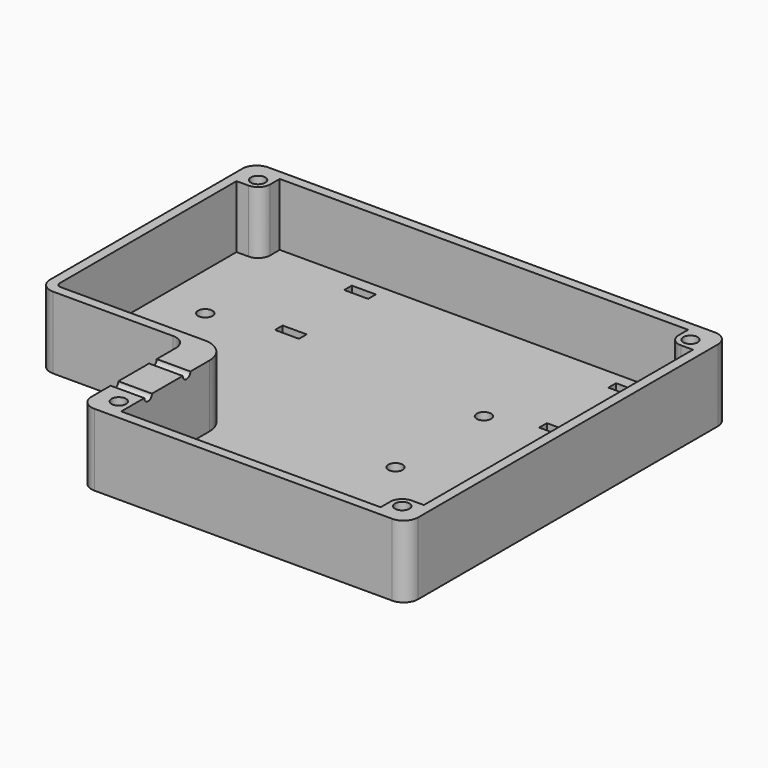
from build123d import *

# Parameters (mm, degrees)
F1_DEPTH  = 15
F2_T      = -2
F3_R      = 1.5
F4_DEPTH  = 2
F5_R      = 1.5
F6_DEPTH  = 13
F7_W      = 5
F7_H      = 2
F8_DEPTH  = 2
F9_R      = 1.5
F10_DEPTH = 2
F11_R     = 1
F12_DEPTH = 7


with BuildPart() as f1:
    # F0 (on Top) → F1 (new body)
    with BuildSketch(Plane.XY):
        with BuildLine():
            Line((-40.5, 35.5), (-40.5, 14.5))
            Line((-40.5, 14.5), (-40.5, -14.5))
            ThreePointArc((-40.5, -14.5), (-39.6213203436, -16.6213203436), (-37.5, -17.5))
            Line((-37.5, -17.5), (-12.5, -17.5))
            ThreePointArc((-12.5, -17.5), (-10.3786796564, -18.3786796564), (-9.5, -20.5))
            Line((-9.5, -20.5), (-9.5, -42.5))
            ThreePointArc((-9.5, -42.5), (-8.6213203436, -44.6213203436), (-6.5, -45.5))
            Line((-6.5, -45.5), (55.5, -45.5))
            ThreePointArc((55.5, -45.5), (57.6213203436, -44.6213203436), (58.5, -42.5))
            Line((58.5, -42.5), (58.5, 35.5))
            ThreePointArc((58.5, 35.5), (57.6213203436, 37.6213203436), (55.5, 38.5))
            Line((55.5, 38.5), (-37.5, 38.5))
            ThreePointArc((-37.5, 38.5), (-39.6213203436, 37.6213203436), (-40.5, 35.5))
        make_face()
    extrude(amount=F1_DEPTH)

    # F2
    f2_openings = [f1.faces().sort_by_distance(p)[0] for p in [
        (12.966173, -0.233802, 15),
    ]]
    offset(amount=F2_T, openings=f2_openings)

    # F3 (on face) → F4 (cut, through all)
    with BuildSketch(Plane.XY.offset(2)):
        with Locations((-29, 11.5)):
            Circle(F3_R)
        with Locations((29, 11.5)):
            Circle(F3_R)
        with Locations((-29, -11.5)):
            Circle(F3_R)
        with Locations((29, -11.5)):
            Circle(F3_R)
    extrude(amount=-F4_DEPTH, mode=Mode.SUBTRACT)

    # F5 (on face) → F6 (join, through all)
    with BuildSketch(Plane.XY.offset(2)):
        with BuildLine():
            Line((-2.5, -43.5), (-2.5, -41))
            Line((-2.5, -41), (-2.5, -20.5))
            ThreePointArc((-2.5, -20.5), (-3.9644660941, -16.9644660941), (-7.5, -15.5))
            Line((-7.5, -15.5), (-12.5, -15.5))
            Line((-12.5, -15.5), (-7.5, -20.5))
            Line((-7.5, -20.5), (-7.5, -38.5))
            Line((-7.5, -38.5), (-7.5, -43.5))
            Line((-7.5, -43.5), (-2.5, -43.5))
        make_face()
        with Locations((-5, -41)):
            Circle(F5_R, mode=Mode.SUBTRACT)
        with BuildLine():
            ThreePointArc((54, -38.5), (52.232233047, -39.232233047), (51.5, -41))
            Line((51.5, -41), (51.5, -43.5))
            Line((51.5, -43.5), (56.5, -43.5))
            Line((56.5, -43.5), (56.5, -38.5))
            Line((56.5, -38.5), (54, -38.5))
        make_face()
        with Locations((54, -41)):
            Circle(F5_R, mode=Mode.SUBTRACT)
        with BuildLine():
            ThreePointArc((51.5, 34), (52.232233047, 32.232233047), (54, 31.5))
            Line((54, 31.5), (56.5, 31.5))
            Line((56.5, 31.5), (56.5, 36.5))
            Line((56.5, 36.5), (51.5, 36.5))
            Line((51.5, 36.5), (51.5, 34))
        make_face()
        with Locations((54, 34)):
            Circle(F5_R, mode=Mode.SUBTRACT)
        with BuildLine():
            Line((-38.5, 31.5), (-36, 31.5))
            ThreePointArc((-36, 31.5), (-34.232233047, 32.232233047), (-33.5, 34))
            Line((-33.5, 34), (-33.5, 36.5))
            Line((-33.5, 36.5), (-38.5, 36.5))
            Line((-38.5, 36.5), (-38.5, 31.5))
        make_face()
        with Locations((-36, 34)):
            Circle(F5_R, mode=Mode.SUBTRACT)
    extrude(amount=F6_DEPTH)

    # F7 (on Top) → F8 (cut, through all)
    with BuildSketch(Plane.XY):
        with Locations((-14, 33)):
            Rectangle(F7_W, F7_H)
        with Locations((41, 33)):
            Rectangle(F7_W, F7_H)
        with Locations((41, 15)):
            Rectangle(F7_W, F7_H)
        with Locations((-14, 15)):
            Rectangle(F7_W, F7_H)
        with Locations((25, -27.5)):
            Rectangle(F7_W, F7_H)
        with Locations((25, -33.5)):
            Rectangle(F7_W, F7_H)
        with Locations((35, -27.5)):
            Rectangle(F7_W, F7_H)
        with Locations((35, -33.5)):
            Rectangle(F7_W, F7_H)
        with Locations((45, -27.5)):
            Rectangle(F7_W, F7_H)
        with Locations((45, -33.5)):
            Rectangle(F7_W, F7_H)
    extrude(amount=F8_DEPTH, mode=Mode.SUBTRACT)

    # F9 (on face) → F10 (cut, through all)
    with BuildSketch(Plane.XY.offset(2)):
        with Locations((54, 34)):
            Circle(F9_R)
        with Locations((-36, 34)):
            Circle(F9_R)
        with Locations((-5, -41)):
            Circle(F9_R)
        with Locations((54, -41)):
            Circle(F9_R)
    extrude(amount=-F10_DEPTH, mode=Mode.SUBTRACT)

    # F11 (on face) → F12 (cut, through all)
    with BuildSketch(Plane(origin=(-9.5, 0, 0), x_dir=(0, -1, 0), z_dir=(-1, 0, 0))):
        with Locations((26.5, 15)):
            Circle(F11_R)
        with Locations((36.5, 15)):
            Circle(F11_R)
    extrude(amount=-F12_DEPTH, mode=Mode.SUBTRACT)


solid = f1.part
